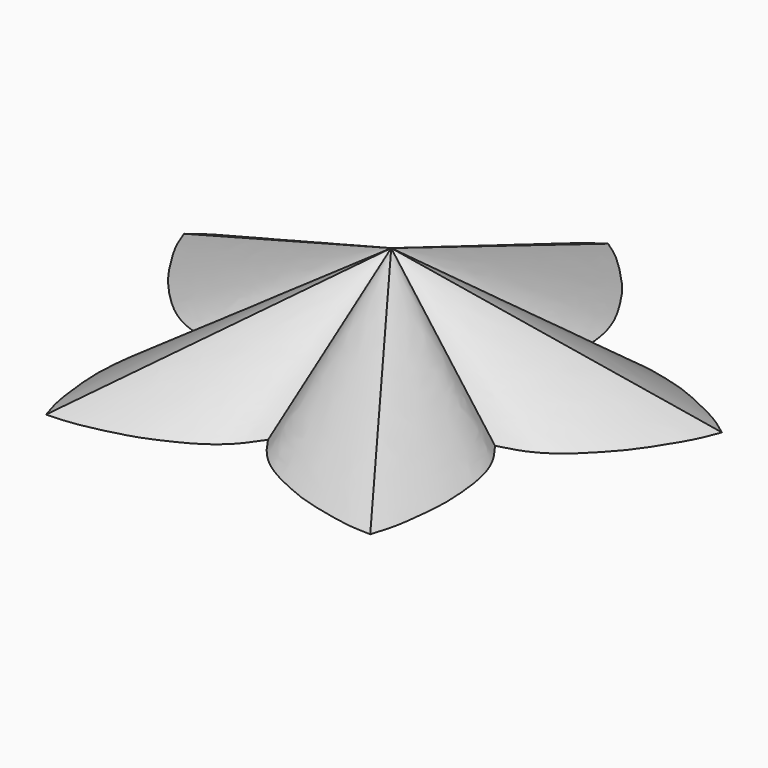
from build123d import *


with BuildPart() as f3:
    # F0 (on Top) → F3 section 0
    with BuildSketch(Plane.XY, mode=Mode.PRIVATE) as f3_s0:
        with BuildLine():
            add(Edge.make_bspline(
                [(-0.0124753234, -18.8278970229), (-0.7697904308, -19.961200205), (-2.2671056849, -22.197438687), (-5.4971396824, -24.5782476493), (-8.5097982693, -26.0415576227), (-11.8078546142, -27.5175122814), (-16.1019245528, -28.5916930097), (-19.9103525288, -29.3506524555), (-21.9520953162, -29.382071457), (-22.8920214886, -29.4066522003)],
                knots=[0.0008153077, 0.0008153077, 0.0008153077, 0.0008153077, 0.1493003301, 0.2961209658, 0.430920111, 0.5710544916, 0.7274599749, 0.8736269908, 1, 1, 1, 1], degree=3))
            add(Edge.make_bspline(
                [(-0.0124753234, -18.8278970229), (0.7461960263, -19.9629409698), (2.2745986674, -22.1932064946), (5.4948274268, -24.5789033838), (8.5104220837, -26.0413814507), (11.8076523761, -27.51756638), (16.1020181674, -28.5916798607), (19.9101998248, -29.3506521627), (21.9523565252, -29.3820782881), (22.8920214886, -29.4066522003)],
                knots=[0.0008182641, 0.0008182641, 0.0008182641, 0.0008182641, 0.1495367427, 0.2963165764, 0.4310782604, 0.5711736972, 0.7275357148, 0.8736621104, 1, 1, 1, 1], degree=3))
            add(Edge.make_bspline(
                [(20.4348945499, -4.3006254881), (21.2597065341, -5.3953141435), (22.8839168621, -7.5508167818), (24.0688660994, -11.3924788825), (24.4570494165, -14.7191441124), (24.7630720257, -18.3194174314), (24.3613918358, -22.7275410571), (23.8222374996, -26.5732471939), (23.1787177672, -28.5111798856), (22.8920214886, -29.4066522003)],
                knots=[0, 0, 0, 0, 0.1493003301, 0.2961209658, 0.430920111, 0.5710544916, 0.7274599749, 0.8736269908, 1, 1, 1, 1], degree=3))
            add(Edge.make_bspline(
                [(20.4348945499, -4.3006254881), (21.7618725093, -3.9574235697), (24.374851601, -3.2817083338), (27.6937837356, -1.0129725898), (30.0685709731, 1.3487584314), (32.5493941697, 3.9757593975), (34.9793047253, 7.6755479815), (36.9514996607, 11.0207819383), (37.6543436494, 12.9379963475), (37.9874524251, 13.8172596563)],
                knots=[0, 0, 0, 0, 0.1493003301, 0.2961209658, 0.430920111, 0.5710544916, 0.7274599749, 0.8736269908, 1, 1, 1, 1], degree=3))
            add(Edge.make_bspline(
                [(13.4751550677, 19.7752230943), (14.7805797181, 20.1929844422), (17.3510694176, 21.0156833652), (21.368604162, 20.8677409141), (24.6372381531, 20.1373850615), (28.1370915811, 19.2392515574), (32.1662860229, 17.4066323866), (35.6191854559, 15.6296606384), (37.2365791887, 14.3831702546), (37.9874524251, 13.8172596563)],
                knots=[0, 0, 0, 0, 0.1493003301, 0.2961209658, 0.430920111, 0.5710544916, 0.7274599749, 0.8736269908, 1, 1, 1, 1], degree=3))
            add(Edge.make_bspline(
                [(13.4751550677, 19.7752230943), (13.460514309, 21.1503468021), (13.2999889318, 23.8702205813), (11.9443750321, 27.6361817734), (10.2089491359, 30.5099546927), (8.2582355477, 33.5485532527), (5.2475993623, 36.7955008004), (2.4839183133, 39.5086562648), (0.7863888883, 40.6477204187), (0.0182331866, 41.1781780645)],
                knots=[0, 0, 0, 0, 0.1497970569, 0.2965038342, 0.4311984436, 0.571224151, 0.7275083428, 0.8735620072, 0.999007298, 0.999007298, 0.999007298, 0.999007298], degree=3))
            add(Edge.make_bspline(
                [(-13.4751550677, 19.7752230943), (-13.4605236567, 21.1494688303), (-13.2999630263, 23.870613964), (-11.9444475544, 27.636107175), (-10.2087031525, 30.5099055848), (-8.259242905, 33.5488528158), (-5.2434748417, 36.7942435322), (-2.4932213287, 39.5167791201), (-0.7536039327, 40.6454634899), (0.0182331866, 41.1781780645)],
                knots=[0, 0, 0, 0, 0.1497014163, 0.2963145262, 0.4309231374, 0.5708594429, 0.7270438524, 0.8730042663, 0.9990043912, 0.9990043912, 0.9990043912, 0.9990043912], degree=3))
            add(Edge.make_bspline(
                [(-13.4751550677, 19.7752230943), (-14.7805797181, 20.1929844422), (-17.3510694176, 21.0156833652), (-21.368604162, 20.8677409141), (-24.6372381531, 20.1373850615), (-28.1370915811, 19.2392515574), (-32.1662860229, 17.4066323866), (-35.6191854559, 15.6296606384), (-37.2365791887, 14.3831702546), (-37.9874524251, 13.8172596563)],
                knots=[0, 0, 0, 0, 0.1493003301, 0.2961209658, 0.430920111, 0.5710544916, 0.7274599749, 0.8736269908, 1, 1, 1, 1], degree=3))
            add(Edge.make_bspline(
                [(-20.4348945499, -4.3006254881), (-21.7618725093, -3.9574235697), (-24.374851601, -3.2817083338), (-27.6937837356, -1.0129725898), (-30.0685709731, 1.3487584314), (-32.5493941697, 3.9757593975), (-34.9793047253, 7.6755479815), (-36.9514996607, 11.0207819383), (-37.6543436494, 12.9379963475), (-37.9874524251, 13.8172596563)],
                knots=[0, 0, 0, 0, 0.1493003301, 0.2961209658, 0.430920111, 0.5710544916, 0.7274599749, 0.8736269908, 1, 1, 1, 1], degree=3))
            add(Edge.make_bspline(
                [(-20.4348945499, -4.3006254881), (-21.2597065341, -5.3953141435), (-22.8839168621, -7.5508167818), (-24.0688660994, -11.3924788825), (-24.4570494165, -14.7191441124), (-24.7630720257, -18.3194174314), (-24.3613918358, -22.7275410571), (-23.8222374996, -26.5732471939), (-23.1787177672, -28.5111798856), (-22.8920214886, -29.4066522003)],
                knots=[0, 0, 0, 0, 0.1493003301, 0.2961209658, 0.430920111, 0.5710544916, 0.7274599749, 0.8736269908, 1, 1, 1, 1], degree=3))
        make_face()
    loft([f3_s0.sketch, Vertex(0, 2.9152445495, 15)])


solid = f3.part
